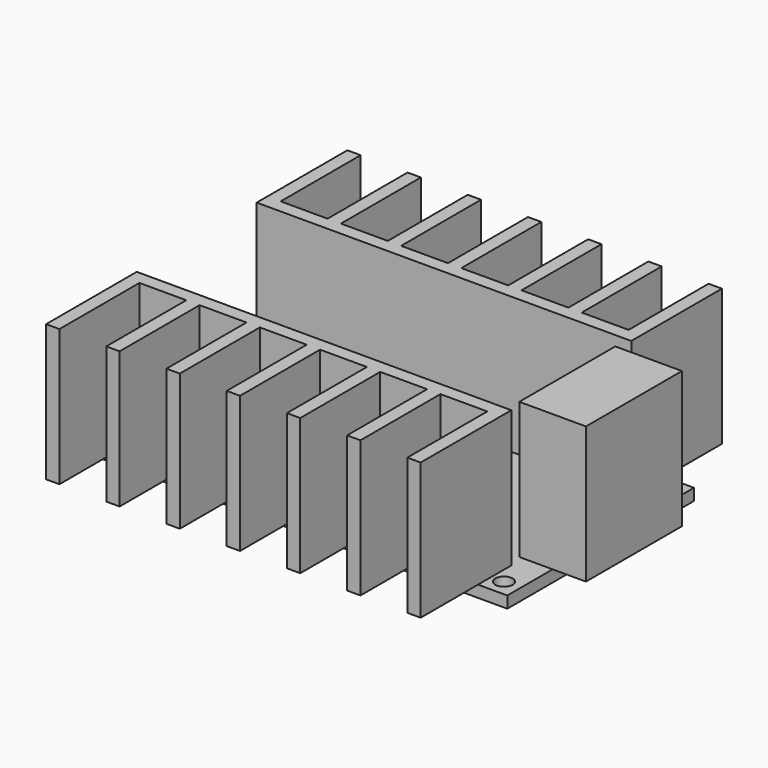
from build123d import *

# Parameters (mm, degrees)
F0_W     = 65
F0_H     = 35
F0_R     = 1.3
F1_DEPTH = 1.75
F2_W     = 2
F2_H     = 15
F3_DEPTH = 20.5
F4_W     = 10
F4_H     = 18
F5_DEPTH = 20.5


with BuildPart() as f1:
    # F0 (on Top) → F1 (new body)
    with BuildSketch(Plane.XY):
        Rectangle(F0_W, F0_H)
        with Locations((-30, -15)):
            Circle(F0_R, mode=Mode.SUBTRACT)
        with Locations((30, -15)):
            Circle(F0_R, mode=Mode.SUBTRACT)
        with Locations((-30, 15)):
            Circle(F0_R, mode=Mode.SUBTRACT)
        with Locations((30, 15)):
            Circle(F0_R, mode=Mode.SUBTRACT)
    extrude(amount=F1_DEPTH)

    # F2 (on face) → F3 (join)
    with BuildSketch(Plane.XY.offset(1.75)):
        with Locations((-27.1, 20.75)):
            Rectangle(F2_W, F2_H)
        Polygon((-26.1, 13.25), (-28.1, 13.25), (-28.1, 11.25), (28.1, 11.25), (28.1, 13.25), (26.1, 13.25), (19.066667, 13.25), (17.066667, 13.25), (10.033333, 13.25), (8.033333, 13.25), (1, 13.25), (-1, 13.25), (-8.033333, 13.25), (-10.033333, 13.25), (-17.066667, 13.25), (-19.066667, 13.25), align=None)
        with Locations((-18.066667, 20.75)):
            Rectangle(F2_W, F2_H)
        with Locations((27.1, 20.75)):
            Rectangle(F2_W, F2_H)
        with Locations((-9.033333, 20.75)):
            Rectangle(F2_W, F2_H)
        with Locations((18.066667, 20.75)):
            Rectangle(F2_W, F2_H)
        with Locations((0, 20.75)):
            Rectangle(F2_W, F2_H)
        with Locations((9.033333, 20.75)):
            Rectangle(F2_W, F2_H)
        with Locations((-9.033333, -20.75)):
            Rectangle(F2_W, F2_H)
        Polygon((-17.066667, -13.25), (-10.033333, -13.25), (-8.033333, -13.25), (-1, -13.25), (1, -13.25), (8.033333, -13.25), (10.033333, -13.25), (17.066667, -13.25), (19.066667, -13.25), (26.1, -13.25), (28.1, -13.25), (28.1, -11.25), (-28.1, -11.25), (-28.1, -13.25), (-26.1, -13.25), (-19.066667, -13.25), align=None)
        with Locations((-18.066667, -20.75)):
            Rectangle(F2_W, F2_H)
        with Locations((0, -20.75)):
            Rectangle(F2_W, F2_H)
        with Locations((-27.1, -20.75)):
            Rectangle(F2_W, F2_H)
        with Locations((9.033333, -20.75)):
            Rectangle(F2_W, F2_H)
        with Locations((18.066667, -20.75)):
            Rectangle(F2_W, F2_H)
        with Locations((27.1, -20.75)):
            Rectangle(F2_W, F2_H)
    extrude(amount=F3_DEPTH)

    # F4 (on face) → F5 (join, through all)
    with BuildSketch(Plane.XY.offset(1.75)):
        with Locations((32.5, 0)):
            Rectangle(F4_W, F4_H)
    extrude(amount=F5_DEPTH)


solid = f1.part
